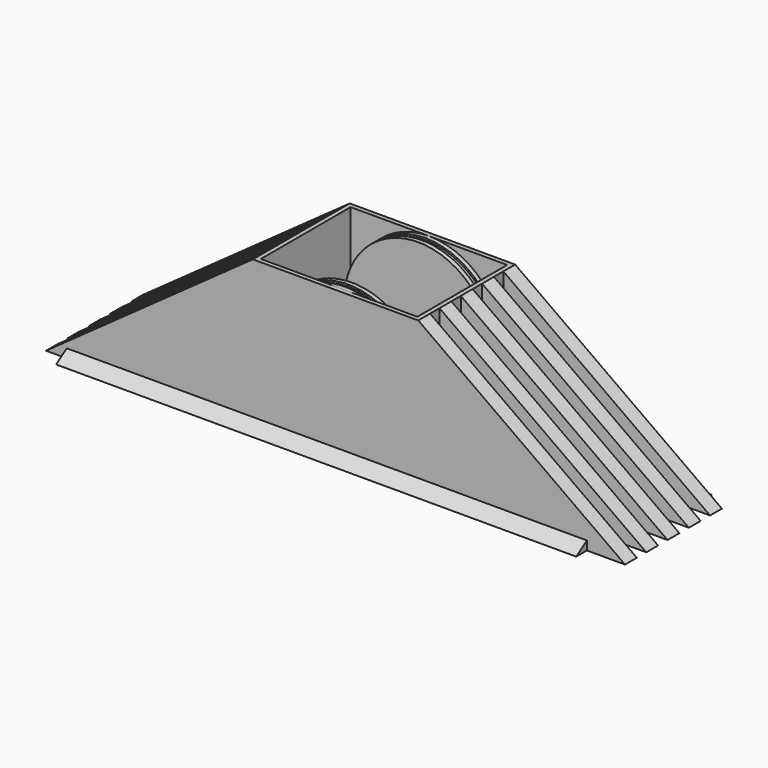
from build123d import *

# Parameters (mm, degrees)
F0_W      = 112
F0_H      = 82
F1_DEPTH  = 100
F2_T      = -3
F3_W      = 10
F3_H      = 100
F4_DEPTH  = 140
F6_DEPTH  = 100
F7_W      = 226.154828
F7_H      = 6
F8_DEPTH  = 9
F11_DEPTH = 3
F12_R     = 48.73
F13_DEPTH = 3
F14_R     = 50
F15_DEPTH = 3
F16_W     = 10
F16_H     = 100
F17_DEPTH = 140
F19_DEPTH = 82
F21_DEPTH = 3
F22_R     = 48.73
F23_DEPTH = 3
F24_R     = 50
F25_DEPTH = 3
F26_W     = 126
F26_H     = 6
F27_DEPTH = 9
F29_W     = 364
F29_H     = 6
F30_DEPTH = 9
F32_DEPTH = 372
F33_DEPTH = 356


with BuildPart() as f1:
    # F0 (on Top) → F1 (new body)
    with BuildSketch(Plane.XY):
        with Locations((31, 16)):
            Rectangle(F0_W, F0_H)
    extrude(amount=F1_DEPTH)

    # F2
    f2_openings = [f1.faces().sort_by_distance(p)[0] for p in [
        (31, 16, 100),
    ]]
    offset(amount=F2_T, openings=f2_openings)

    # F3 (on face) → F4 (join)
    with BuildSketch(Plane.YZ.offset(87)):
        with Locations((-20, 50)):
            Rectangle(F3_W, F3_H)
        with Locations((52, 50)):
            Rectangle(F3_W, F3_H)
        with Locations((34, 50)):
            Rectangle(F3_W, F3_H)
        with Locations((16, 50)):
            Rectangle(F3_W, F3_H)
        with Locations((-2, 50)):
            Rectangle(F3_W, F3_H)
    extrude(amount=F4_DEPTH)

    # F5 (on face) → F6 (cut)
    with BuildSketch(Plane.XZ.offset(25)):
        Polygon((227, 0), (227, 100), (87, 100), align=None)
    extrude(amount=-F6_DEPTH, mode=Mode.SUBTRACT)

    # F7 (on face) → F8 (join)
    with BuildSketch(Plane.XZ.offset(25)):
        with Locations((88.077414, 3)):
            Rectangle(F7_W, F7_H)
    extrude(amount=F8_DEPTH)

    # F10 (on face) → F11 (join)
    with BuildSketch(Plane.XZ.offset(-54)):
        with BuildLine():
            ThreePointArc((81, 50), (66.355339, 85.355339), (31, 100))
            Line((31, 100), (31, 0))
            ThreePointArc((31, 0), (66.355339, 14.644661), (81, 50))
        make_face()
        with BuildLine():
            Line((31, 0), (31, 100))
            ThreePointArc((31, 100), (-19, 50), (31, 0))
        make_face()
    extrude(amount=F11_DEPTH)

    # F12 (on face) → F13 (join)
    with BuildSketch(Plane.XZ.offset(-51)):
        with Locations((31, 50)):
            Circle(F12_R)
    extrude(amount=F13_DEPTH)

    # F14 (on face) → F15 (join)
    with BuildSketch(Plane.XZ.offset(-48)):
        with Locations((31, 50)):
            Circle(F14_R)
    extrude(amount=F15_DEPTH)

    # F16 (on face) → F17 (join)
    with BuildSketch(Plane(origin=(-25, 0, 0), x_dir=(0, -1, 0), z_dir=(-1, 0, 0))):
        with Locations((-52, 50)):
            Rectangle(F16_W, F16_H)
        with Locations((-34, 50)):
            Rectangle(F16_W, F16_H)
        with Locations((-16, 50)):
            Rectangle(F16_W, F16_H)
        with Locations((2, 50)):
            Rectangle(F16_W, F16_H)
        with Locations((20, 50)):
            Rectangle(F16_W, F16_H)
    extrude(amount=F17_DEPTH)

    # F18 (on face) → F19 (cut)
    with BuildSketch(Plane.XZ.offset(25)):
        Polygon((-165, 100), (-165, 0), (-25, 100), align=None)
    extrude(amount=-F19_DEPTH, mode=Mode.SUBTRACT)

    # F20 (on face) → F21 (join)
    with BuildSketch(Plane(origin=(0, -22, 0), x_dir=(-1, 0, 0), z_dir=(0, 1, 0))):
        with BuildLine():
            Line((-82.5, 50), (17.5, 50))
            ThreePointArc((17.5, 50), (-32.5, 100), (-82.5, 50))
        make_face()
        with BuildLine():
            ThreePointArc((-82.5, 50), (-32.5, 0), (17.5, 50))
            Line((17.5, 50), (-82.5, 50))
        make_face()
    extrude(amount=F21_DEPTH)

    # F22 (on face) → F23 (join)
    with BuildSketch(Plane(origin=(0, -19, 0), x_dir=(-1, 0, 0), z_dir=(0, 1, 0))):
        with Locations((-32.5, 50)):
            Circle(F22_R)
    extrude(amount=F23_DEPTH)

    # F24 (on face) → F25 (join)
    with BuildSketch(Plane(origin=(0, -16, 0), x_dir=(-1, 0, 0), z_dir=(0, 1, 0))):
        with Locations((-32.5, 50)):
            Circle(F24_R)
    extrude(amount=F25_DEPTH)

    # F26 (on face) → F27 (join)
    with BuildSketch(Plane.XZ.offset(25)):
        with Locations((-88, 3)):
            Rectangle(F26_W, F26_H)
    extrude(amount=F27_DEPTH)

    # F29 (on face) → F30 (join)
    with BuildSketch(Plane(origin=(0, 57, 0), x_dir=(-1, 0, 0), z_dir=(0, 1, 0))):
        with Locations((-31, 3)):
            Rectangle(F29_W, F29_H)
    extrude(amount=F30_DEPTH)

    # F31 (on face) → F32 (cut)
    with BuildSketch(Plane.YZ.offset(213)):
        Polygon((66, 6), (57, 6), (66, 0), align=None)
    extrude(amount=-F32_DEPTH, mode=Mode.SUBTRACT)

    # F28 (on face) → F33 (cut)
    with BuildSketch(Plane(origin=(-151, 0, 0), x_dir=(0, -1, 0), z_dir=(-1, 0, 0))):
        Polygon((34, 6), (25, 6), (34, 0), align=None)
    extrude(amount=-F33_DEPTH, mode=Mode.SUBTRACT)


solid = f1.part
